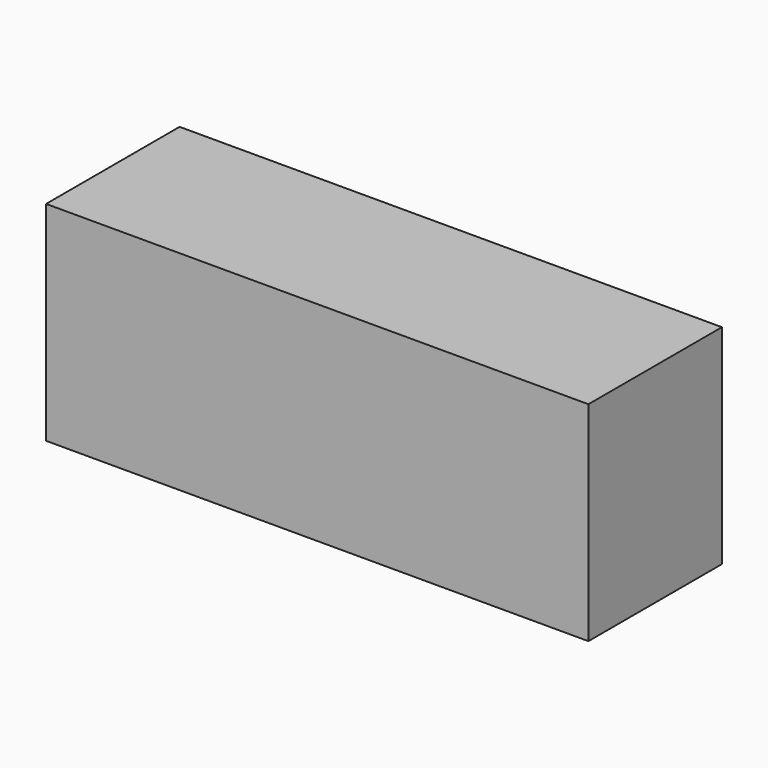
from build123d import *

# Parameters (mm, degrees)
SKETCH_W      = 130
SKETCH_H      = 40
EXTRUDE_DEPTH = 50


with BuildPart() as part:
    # Sketch → Extrude (new body)
    with BuildSketch(Plane.XY):
        Rectangle(SKETCH_W, SKETCH_H)
    extrude(amount=EXTRUDE_DEPTH)


solid = part.part
